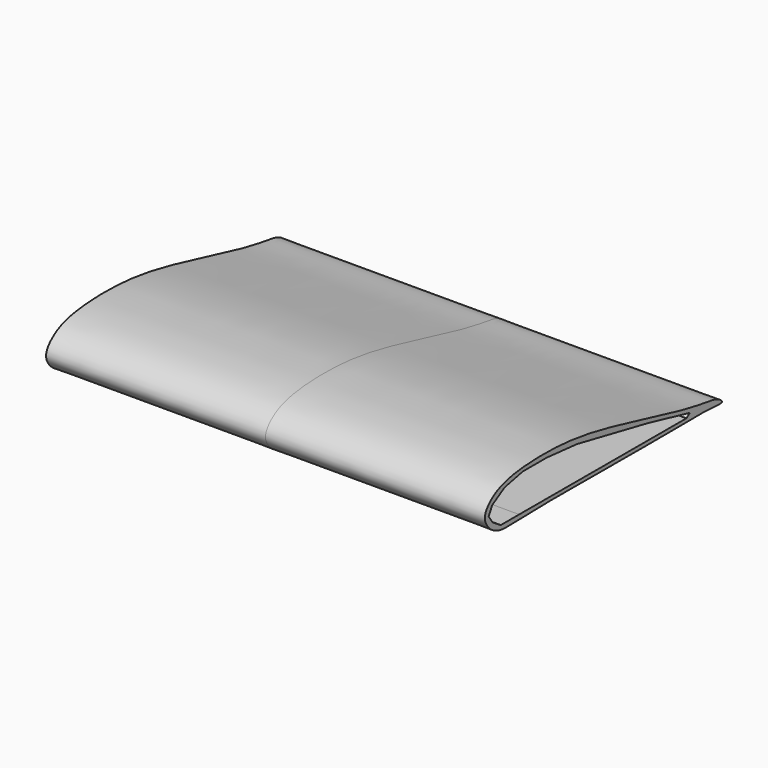
from build123d import *

# Parameters (mm, degrees)
F1_DEPTH      = 63.5
F1_DEPTH_BACK = 63.5
F3_DEPTH      = 127


with BuildPart() as f1:
    # F0 (on Right) → F1 (new body, two sides)
    with BuildSketch(Plane.YZ) as f1_sk:
        with BuildLine():
            add(Edge.make_bspline(
                [(-11.3225150853, 0), (-12.7158543585, 0.2770146483), (-15.0685609853, 1.3946122235), (-17.9070561668, 5.6947463584), (-13.5501261372, 10.4608568659), (-5.7466124489, 12.788960488), (10.0750079599, 13.3250601655), (28.8456139202, 10.4618973674), (57.9137596955, 2.4160107126), (67.072801422, 2.0484435555), (70.033822944, -0.5685789704), (63.3492943712, 0.3305689955), (52.7933972094, -0.315368698), (0.4479477851, 0.5262678674), (-8.9807021, -0.4655840204), (-11.3225150853, 0)],
                knots=[0, 0, 0, 0, 0.0459813605, 0.0929060971, 0.1454160458, 0.2105305602, 0.2997459524, 0.4036612031, 0.5302402072, 0.5988640695, 0.6294121107, 0.67546602, 0.7561777932, 0.9227182143, 1, 1, 1, 1], degree=3))
        make_face()
    extrude(amount=F1_DEPTH)
    extrude(f1_sk.sketch, amount=-F1_DEPTH_BACK)

    # F2 (on face) → F3 (cut)
    with BuildSketch(Plane.YZ.offset(63.5)):
        Polygon((-11.0451066867, 1.1707002996), (-4.39712964, 1.1707002996), (56.1292208731, 1.0714767268), (57.4191249907, 1.9644885324), (42.0394800603, 5.5365352891), (16.5390335023, 10.596934706), (5.6244460866, 11.5891704336), (-3.0080003198, 11.5891704336), (-9.655976668, 10.2000404149), (-14.1210351139, 7.521005813), (-15.4109401628, 5.1396414638), (-14.0218110755, 3.0559471343), align=None)
    extrude(amount=-F3_DEPTH, mode=Mode.SUBTRACT)


solid = f1.part
